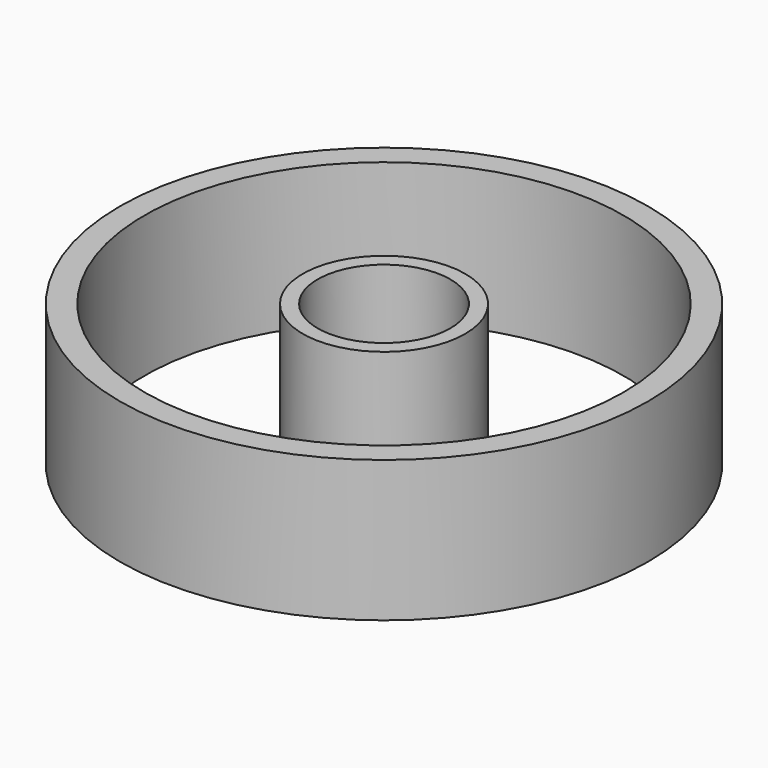
from build123d import *

# Parameters (mm, degrees)
F0_R     = 47.519886
F1_DEPTH = 25.4
F2_R     = 43.0991
F3_DEPTH = 25.4
F5_R     = 14.620859
F5_R_2   = 11.935264
F6_DEPTH = 25.4


with BuildPart() as f1:
    # F0 (on Top) → F1 (new body)
    with BuildSketch(Plane.XY):
        Circle(F0_R)
    extrude(amount=-F1_DEPTH)

    # F2 (on face) → F3 (cut)
    with BuildSketch(Plane.XY):
        Circle(F2_R)
    extrude(amount=-F3_DEPTH, mode=Mode.SUBTRACT)


with BuildPart() as f6:
    # F5 (on face) → F6 (new body)
    with BuildSketch(Plane.XY):
        Circle(F5_R)
        Circle(F5_R_2, mode=Mode.SUBTRACT)
    extrude(amount=-F6_DEPTH)


solid = Compound([f1.part, f6.part])
